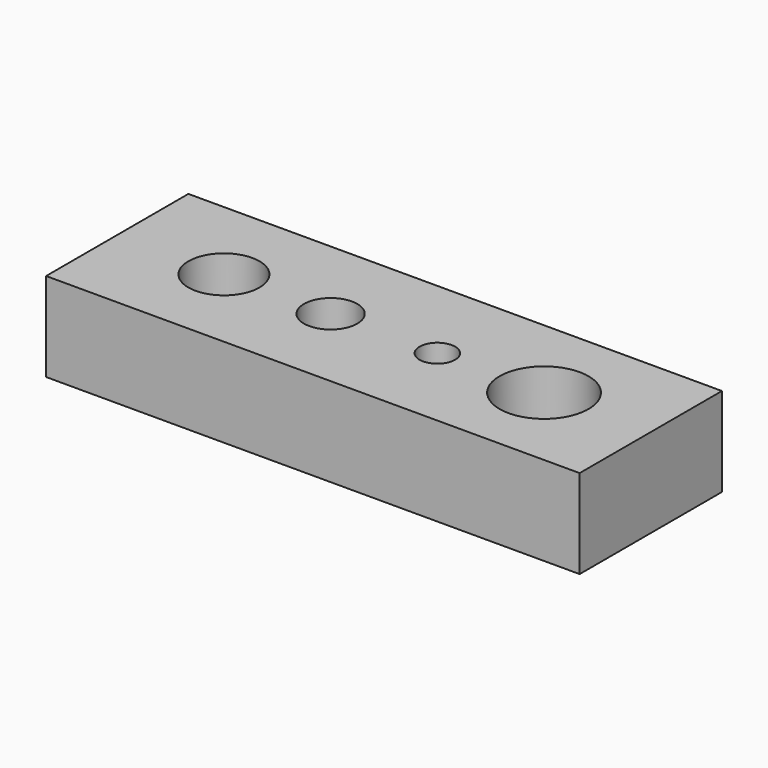
from build123d import *

# Parameters (mm, degrees)
F0_R     = 1.5
F0_R_2   = 1
F1_DEPTH = 5


with BuildPart() as f1:
    # F0 (on Top) → F1 (new body)
    with BuildSketch(Plane.XY):
        Polygon((-15, -5), (15, -5), (15, 5), (-15, 5), (-15, 0), align=None)
        with BuildLine():
            ThreePointArc((-7, 0), (-9, -2), (-11, 0))
            ThreePointArc((-11, 0), (-9, 2), (-7, 0))
        make_face(mode=Mode.SUBTRACT)
        with Locations((-3, 0)):
            Circle(F0_R, mode=Mode.SUBTRACT)
        with Locations((3, 0)):
            Circle(F0_R_2, mode=Mode.SUBTRACT)
        with BuildLine():
            ThreePointArc((11.5, 0), (9, -2.5), (6.5, 0))
            ThreePointArc((6.5, 0), (9, 2.5), (11.5, 0))
        make_face(mode=Mode.SUBTRACT)
    extrude(amount=F1_DEPTH)


solid = f1.part
